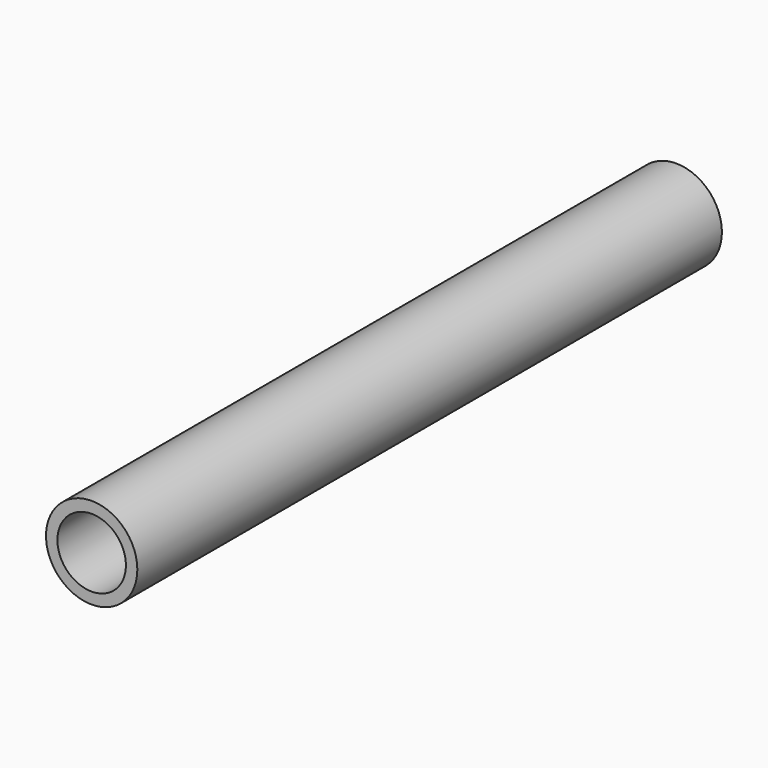
from build123d import *

# Parameters (mm, degrees)
F0_R     = 12.7
F1_DEPTH = 101.6
F2_D     = 19.05
F3_D     = 19.05


with BuildPart() as f1:
    # F0 (on Front) → F1 (new body, symmetric)
    with BuildSketch(Plane.XZ):
        Circle(F0_R)
    extrude(amount=F1_DEPTH, both=True)

    # F2 (through all)
    with Locations(Plane(origin=(0, 0, 0), x_dir=(1, 0, 0), z_dir=(0, 1, 0))):
        with Locations((0, 0)):
            Hole(F2_D / 2)

    # F3 (through all)
    with Locations(Plane.XZ):
        with Locations((0, 0)):
            Hole(F3_D / 2)


solid = f1.part
